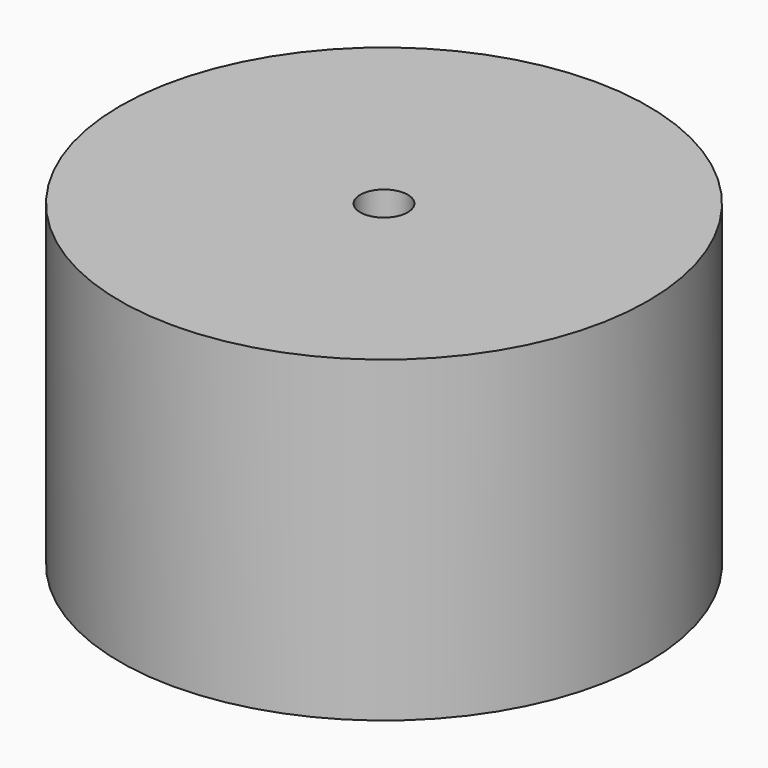
from build123d import *

# Parameters (mm, degrees)
F0_R        = 31.6529983533
F0_R_2      = 16.2871330866
F0_R_3      = 2.853540911
F1_DEPTH    = 5.08
F2_DEPTH    = 25.4
F2_FACE_R   = 31.6529983533
F2_FACE_R_2 = 2.853540911
F3_DEPTH    = 7.62


with BuildPart() as f1:
    # F0 (on Top) → F1 (new body)
    with BuildSketch(Plane.XY):
        Circle(F0_R)
        Circle(F0_R_2, mode=Mode.SUBTRACT)
        Circle(F0_R_2)
        Circle(F0_R_3, mode=Mode.SUBTRACT)
    extrude(amount=F1_DEPTH)

    # F2 (add): a face of the model
    f2_faces = [f1.faces().sort_by_distance(p)[0] for p in [
        (-30.7577163621, 0, 5.08),
    ]]
    extrude(f2_faces, amount=F2_DEPTH)

    # F0 (on Top) + F2_face (on face) → F3 (join)
    with BuildSketch(Plane.XY):
        Circle(F0_R)
        Circle(F0_R_2, mode=Mode.SUBTRACT)
    with BuildSketch(Plane.XY.offset(30.48)):
        Circle(F2_FACE_R)
        Circle(F2_FACE_R_2, mode=Mode.SUBTRACT)
    extrude(amount=F3_DEPTH)


solid = f1.part
